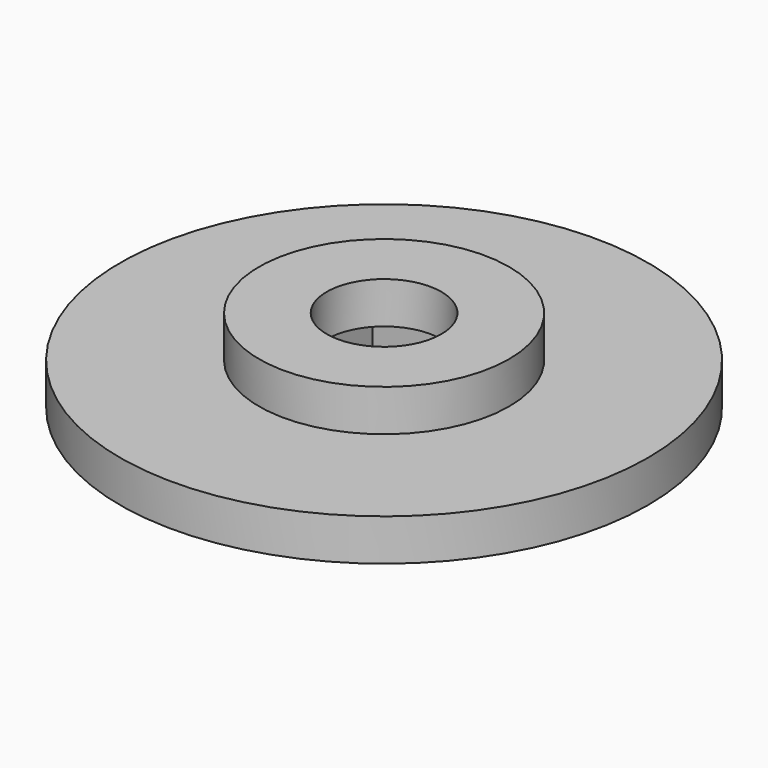
from build123d import *

# Parameters (mm, degrees)
SKETCH_R      = 19
SKETCH_R_2    = 4.125
PAD_DEPTH     = 3
SKETCH001_R   = 9
SKETCH001_R_2 = 4.125
PAD001_DEPTH  = 3
SKETCH002_W   = 8.5
SKETCH002_H   = 8.5
POCKET_DEPTH  = 3


with BuildPart() as part:
    # Sketch → Pad (new body)
    with BuildSketch(Plane.XY):
        Circle(SKETCH_R)
        Circle(SKETCH_R_2, mode=Mode.SUBTRACT)
    extrude(amount=PAD_DEPTH)

    # Sketch001 (on Face4 of Pad) → Pad001 (join)
    with BuildSketch(Plane.XY.offset(3)):
        Circle(SKETCH001_R)
        Circle(SKETCH001_R_2, mode=Mode.SUBTRACT)
    extrude(amount=PAD001_DEPTH)

    # Sketch002 (on Face2 of Pad001) → Pocket (cut)
    with BuildSketch(Plane(origin=(0, 0, 0), x_dir=(1, 0, 0), z_dir=(0, 0, -1))):
        Rectangle(SKETCH002_W, SKETCH002_H)
    extrude(amount=-POCKET_DEPTH, mode=Mode.SUBTRACT)


solid = part.part
